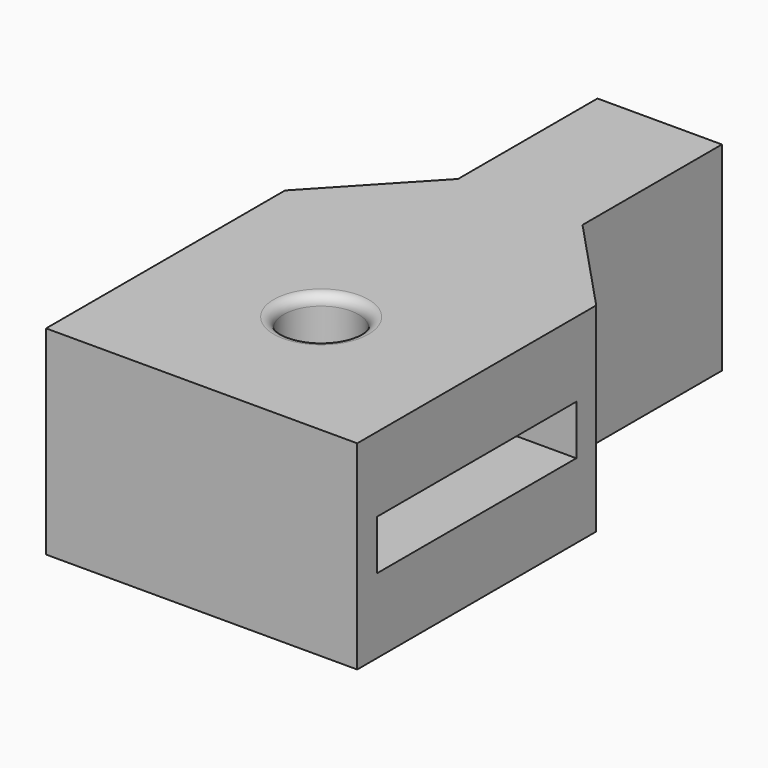
from build123d import *

# Parameters (mm, degrees)
F1_DEPTH      = 50.8
F2_R          = 9.525
F3_DEPTH      = 50.801
F4_R          = 2.54
F5_W          = 63.5
F5_H          = 12.7
F6_DEPTH      = 39.6885
F6_DEPTH_BACK = 39.6885


with BuildPart() as f1:
    # F0 (on Top) → F1 (new body)
    with BuildSketch(Plane.XY):
        Polygon((-39.6875, 38.1), (-39.6875, -38.1), (39.6875, -38.1), (39.6875, 38.1), (15.875, 63.5), (15.875, 107.95), (-15.875, 107.95), (-15.875, 63.5), align=None)
    extrude(amount=F1_DEPTH)

    # F2 (on face) → F3 (cut, through all)
    with BuildSketch(Plane.XY.offset(50.8)):
        Circle(F2_R)
    extrude(amount=-F3_DEPTH, mode=Mode.SUBTRACT)

    # F4
    f4_edges = [f1.edges().sort_by_distance(p)[0] for p in [
        (-9.525, 0, 0),
        (-9.525, 0, 50.8),
        (9.525, 0, 25.4),
    ]]
    fillet(f4_edges, radius=F4_R)

    # F5 (on Right) → F6 (cut, two sides)
    with BuildSketch(Plane.YZ) as f6_sk:
        with Locations((0, 25.4)):
            Rectangle(F5_W, F5_H)
    extrude(amount=-F6_DEPTH, mode=Mode.SUBTRACT)
    extrude(f6_sk.sketch, amount=F6_DEPTH_BACK, mode=Mode.SUBTRACT)


solid = f1.part
